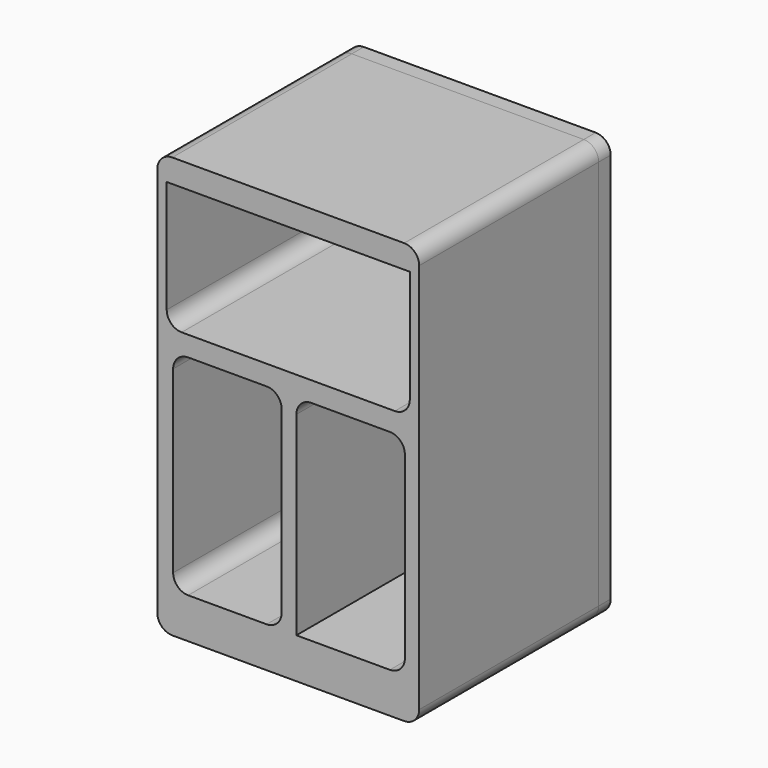
from build123d import *

# Parameters (mm, degrees)
F0_W     = 88.9
F0_H     = 142.875
F0_W_2   = 82.55
F0_H_2   = 83.6971029639
F0_W_3   = 36.83
F0_H_3   = 71.12
F1_DEPTH = 76.2
F2_R     = 5.08
F0_H_4   = 43.3028970361
F3_DEPTH = 5.08
F4_R     = 5.08


with BuildPart() as f1:
    # F0 (on Front) → F1 (new body)
    with BuildSketch(Plane.XZ):
        Rectangle(F0_W, F0_H)
        Polygon((-41.275, 20.1971029639), (-41.275, 63.5), (41.275, 63.5), (41.275, 20.1971029639), (41.275, -63.5), (-41.275, -63.5), align=None, mode=Mode.SUBTRACT)
        with Locations((0, -21.651448518)):
            Rectangle(F0_W_2, F0_H_2)
        with Locations((-20.6682275152, -22.143062892)):
            Rectangle(F0_W_3, F0_H_3, mode=Mode.SUBTRACT)
        with Locations((21.1803221041, -22.143062892)):
            Rectangle(F0_W_3, F0_H_3, mode=Mode.SUBTRACT)
    extrude(amount=F1_DEPTH)

    # F2
    f2_edges = [f1.edges().sort_by_distance(p)[0] for p in [
        (44.45, -38.1, 71.4375),
        (-44.45, -38.1, 71.4375),
        (41.275, -38.1, 20.197103),
        (-41.275, -38.1, 20.197103),
        (-39.083228, -38.1, -57.703063),
        (39.595322, -38.1, -57.703063),
        (-2.253228, -38.1, -57.703063),
        (-39.083228, -38.1, 13.416937),
        (2.765322, -38.1, 13.416937),
        (39.595322, -38.1, 13.416937),
        (-2.253228, -38.1, 13.416937),
        (44.45, -38.1, -71.4375),
        (-44.45, -38.1, -71.4375),
    ]]
    fillet(f2_edges, radius=F2_R)


with BuildPart() as f3:
    # F0 (on Front) → F3 (new body)
    with BuildSketch(Plane.XZ):
        Rectangle(F0_W, F0_H)
        Polygon((-41.275, 20.1971029639), (-41.275, 63.5), (41.275, 63.5), (41.275, 20.1971029639), (41.275, -63.5), (-41.275, -63.5), align=None, mode=Mode.SUBTRACT)
        with Locations((0, -21.651448518)):
            Rectangle(F0_W_2, F0_H_2)
        with Locations((-20.6682275152, -22.143062892)):
            Rectangle(F0_W_3, F0_H_3, mode=Mode.SUBTRACT)
        with Locations((21.1803221041, -22.143062892)):
            Rectangle(F0_W_3, F0_H_3, mode=Mode.SUBTRACT)
        with Locations((0, 41.848551482)):
            Rectangle(F0_W_2, F0_H_4)
        with Locations((21.1803221041, -22.143062892)):
            Rectangle(F0_W_3, F0_H_3)
        with Locations((-20.6682275152, -22.143062892)):
            Rectangle(F0_W_3, F0_H_3)
    extrude(amount=-F3_DEPTH)

    # F4
    f4_edges = [f3.edges().sort_by_distance(p)[0] for p in [
        (44.45, 2.54, 71.4375),
        (-44.45, 2.54, 71.4375),
        (44.45, 2.54, -71.4375),
        (-44.45, 2.54, -71.4375),
    ]]
    fillet(f4_edges, radius=F4_R)


solid = Compound([f1.part, f3.part])
